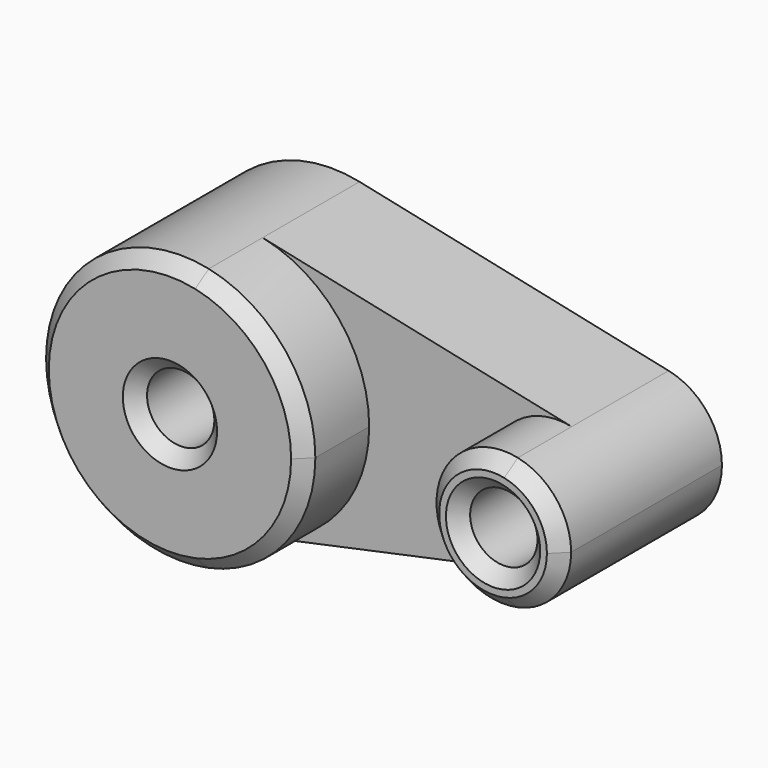
from build123d import *

# Parameters (mm, degrees)
F0_R     = 12.5
F1_DEPTH = 45
F2_DEPTH = 75
F3_SIZE  = 5
F4_SIZE  = 5
F5_DEPTH = 15


with BuildPart() as f1:
    # F0 (on Front) → F1 (new body)
    with BuildSketch(Plane.XZ):
        with BuildLine():
            ThreePointArc((10.416667, -48.902894), (38.864079, -31.457643), (50, 0))
            ThreePointArc((50, 0), (38.864079, 31.457643), (10.416667, 48.902894))
            ThreePointArc((10.416667, 48.902894), (-50, 0), (10.416667, -48.902894))
        make_face()
        Circle(F0_R, mode=Mode.SUBTRACT)
        with BuildLine():
            ThreePointArc((10.416667, 48.902894), (38.864079, 31.457643), (50, 0))
            ThreePointArc((50, 0), (38.864079, -31.457643), (10.416667, -48.902894))
            Line((10.416667, -48.902894), (125.208333, -24.451447))
            ThreePointArc((125.208333, -24.451447), (95, 0), (125.208333, 24.451447))
            Line((125.208333, 24.451447), (10.416667, 48.902894))
        make_face()
        with BuildLine():
            ThreePointArc((145, 0), (139.43204, 15.728822), (125.208333, 24.451447))
            ThreePointArc((125.208333, 24.451447), (95, 0), (125.208333, -24.451447))
            ThreePointArc((125.208333, -24.451447), (139.43204, -15.728822), (145, 0))
        make_face()
        with Locations((120, 0)):
            Circle(F0_R, mode=Mode.SUBTRACT)
    extrude(amount=F1_DEPTH)

    # F0 (on Front) → F2 (join)
    with BuildSketch(Plane.XZ):
        with BuildLine():
            ThreePointArc((10.416667, -48.902894), (38.864079, -31.457643), (50, 0))
            ThreePointArc((50, 0), (38.864079, 31.457643), (10.416667, 48.902894))
            ThreePointArc((10.416667, 48.902894), (-50, 0), (10.416667, -48.902894))
        make_face()
        Circle(F0_R, mode=Mode.SUBTRACT)
        with BuildLine():
            ThreePointArc((145, 0), (139.43204, 15.728822), (125.208333, 24.451447))
            ThreePointArc((125.208333, 24.451447), (95, 0), (125.208333, -24.451447))
            ThreePointArc((125.208333, -24.451447), (139.43204, -15.728822), (145, 0))
        make_face()
        with Locations((120, 0)):
            Circle(F0_R, mode=Mode.SUBTRACT)
    extrude(amount=F2_DEPTH)

    # F3
    f3_edges = [f1.edges().sort_by_distance(p)[0] for p in [
        (-10.416667, -75, 48.902894),
        (-12.5, -75, 0),
        (114.791667, -75, 24.451447),
        (107.5, -75, 0),
    ]]
    chamfer(f3_edges, length=F3_SIZE)

    # F4
    f4_edges = [f1.edges().sort_by_distance(p)[0] for p in [
        (107.5, 0, 0),
        (-12.5, 0, 0),
    ]]
    chamfer(f4_edges, length=F4_SIZE)

    # F0 (on Front) → F5 (join)
    with BuildSketch(Plane.XZ):
        with BuildLine():
            ThreePointArc((10.416667, 48.902894), (38.864079, 31.457643), (50, 0))
            ThreePointArc((50, 0), (38.864079, -31.457643), (10.416667, -48.902894))
            Line((10.416667, -48.902894), (125.208333, -24.451447))
            ThreePointArc((125.208333, -24.451447), (95, 0), (125.208333, 24.451447))
            Line((125.208333, 24.451447), (10.416667, 48.902894))
        make_face()
    extrude(amount=F5_DEPTH)


solid = f1.part
